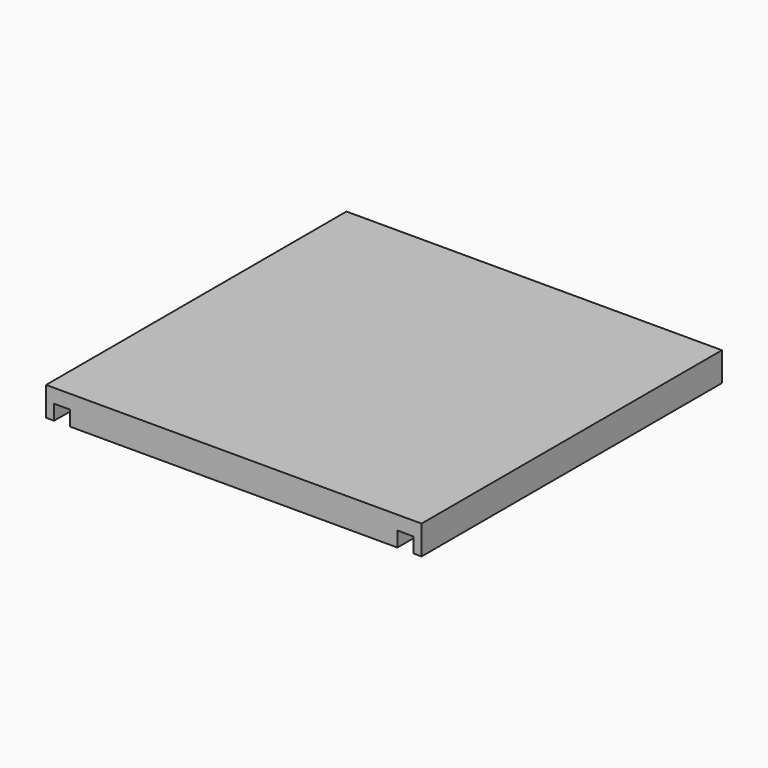
from build123d import *

# Parameters (mm, degrees)
SKETCH_W                = 350
SKETCH_H                = 350
PAD_DEPTH               = 27
SKETCH003_W             = 15
SKETCH003_H             = 30
POCKET_DEPTH            = 14
SKETCH003_MIRRORED_2_W  = 15
SKETCH003_MIRRORED_2_H  = 30
POCKET_MIRRORED_2_DEPTH = 14


with BuildPart() as part:
    # Sketch → Pad (new body)
    with BuildSketch(Plane.XY):
        Rectangle(SKETCH_W, SKETCH_H)
    extrude(amount=PAD_DEPTH)

    # Sketch003 (on Face5 of Pad) → Pocket (cut)
    with BuildSketch(Plane(origin=(0, 0, 0), x_dir=(1, 0, 0), z_dir=(0, 0, -1))):
        with Locations((160, -160)):
            Rectangle(SKETCH003_W, SKETCH003_H)
    pocket = extrude(amount=-POCKET_DEPTH, mode=Mode.SUBTRACT)

    # Sketch003 Mirrored 2 → Pocket Mirrored 2 (cut)
    with BuildSketch(Plane(origin=(0, 0, 0), x_dir=(-1, 0, 0), z_dir=(0, 0, 1))):
        with Locations((160, -160)):
            Rectangle(SKETCH003_MIRRORED_2_W, SKETCH003_MIRRORED_2_H)
    pocket_mirrored_2 = extrude(amount=POCKET_MIRRORED_2_DEPTH, mode=Mode.SUBTRACT)

    # Mirrored001: Pocket, Pocket Mirrored 2 across Sketch003 H_Axis
    add(pocket.mirror(Plane(origin=(0, 0, 0), x_dir=(0, 0, -1), z_dir=(0, -1, 0))), mode=Mode.SUBTRACT)
    add(pocket_mirrored_2.mirror(Plane(origin=(0, 0, 0), x_dir=(0, 0, -1), z_dir=(0, -1, 0))), mode=Mode.SUBTRACT)


solid = part.part
